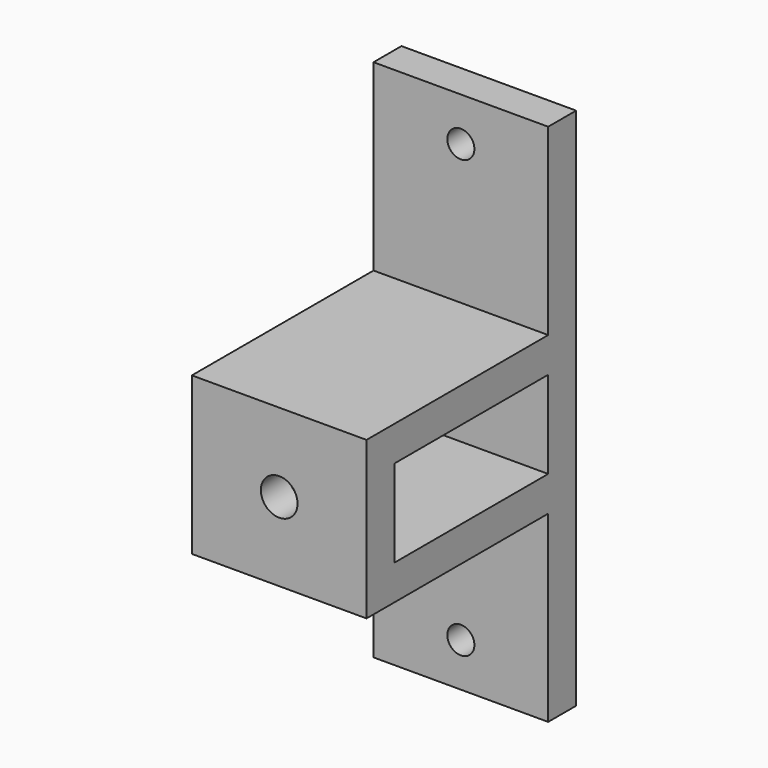
from build123d import *

# Parameters (mm, degrees)
F0_W     = 22
F0_H     = 10
F1_DEPTH = 20
F2_R     = 1.55
F2_R_2   = 2.1
F3_DEPTH = 30.001


with BuildPart() as f1:
    # F0 (on Right) → F1 (new body)
    with BuildSketch(Plane.YZ):
        Polygon((-24, 0), (-20, 0), (-20, 60), (-24, 60), (-24, 39), (-50, 39), (-50, 21), (-24, 21), align=None)
        with Locations((-35, 30)):
            Rectangle(F0_W, F0_H, mode=Mode.SUBTRACT)
    extrude(amount=F1_DEPTH)

    # F2 (on face) → F3 (cut, through all)
    with BuildSketch(Plane(origin=(0, -20, 0), x_dir=(-1, 0, 0), z_dir=(0, 1, 0))):
        with Locations((-10, 55)):
            Circle(F2_R)
        with Locations((-10, 5)):
            Circle(F2_R)
        with Locations((-10, 30)):
            Circle(F2_R_2)
    extrude(amount=-F3_DEPTH, mode=Mode.SUBTRACT)


solid = f1.part
